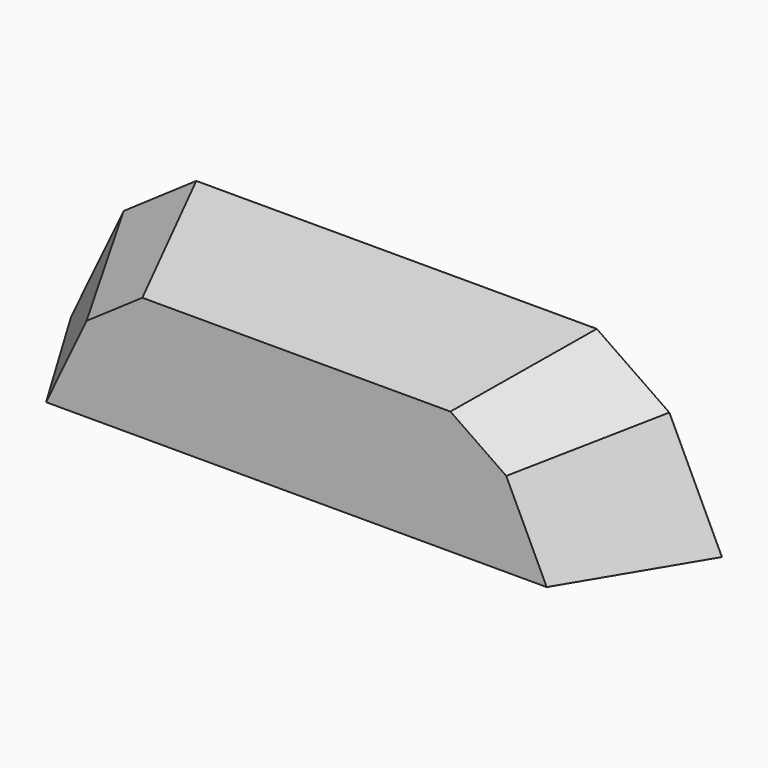
from build123d import *


with BuildPart() as f4:
    # F3 (on offset) → F4 section 0
    with BuildSketch(Plane.XZ.offset(105)):
        Polygon((-41.923077, 16.923077), (-50, 0), (50, 0), (41.923077, 16.923077), (30.769231, 24.615385), (0, 24.615385), (-30.769231, 24.615385), align=None)
    # F1 (on offset) → F4 section 1
    with BuildSketch(Plane.XZ.offset(80)):
        Polygon((-54.5, 22), (-65, 0), (65, 0), (54.5, 22), (40, 32), (0, 32), (-40, 32), align=None)
    loft()


solid = f4.part
